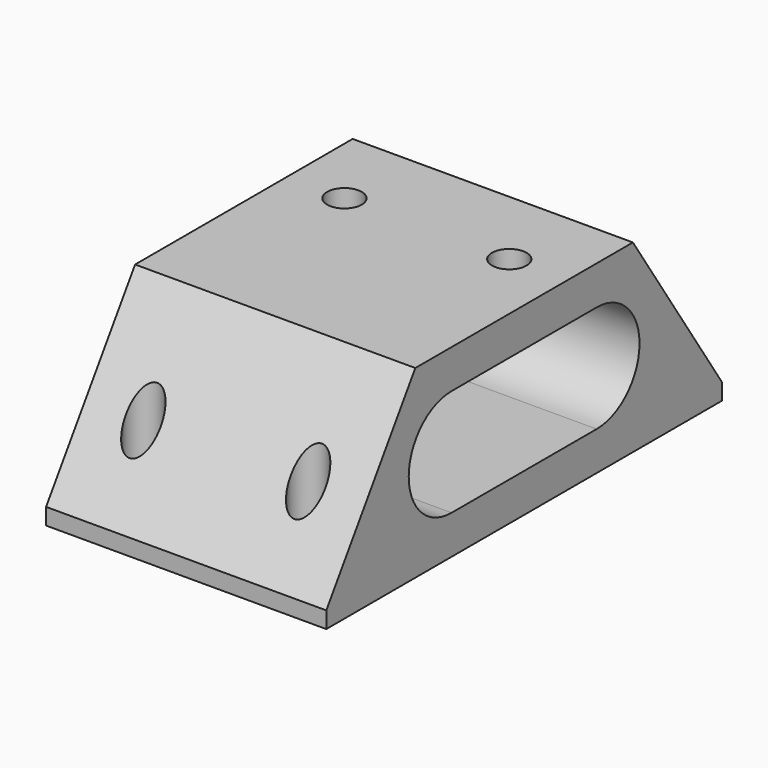
from build123d import *

# Parameters (mm, degrees)
PAD002_DEPTH  = 17
SKETCH027_R   = 2.1
HOLE002_DEPTH = 22.401
SKETCH028_R   = 2.1
HOLE001_DEPTH = 5


with BuildPart() as part:
    # Sketch026 → Pad002 (new body, symmetric)
    with BuildSketch(Plane.YZ):
        Polygon((-30, 0), (-30, 2), (-16.5, 22.4), (16.5, 22.4), (30, 2), (30, 0), align=None)
        with BuildLine():
            ThreePointArc((-11, 17.7), (-17.5, 11.2), (-11, 4.7))
            Line((-11, 4.7), (11, 4.7))
            ThreePointArc((11, 4.7), (17.5, 11.2), (11, 17.7))
            Line((-11, 17.7), (11, 17.7))
        make_face(mode=Mode.SUBTRACT)
    extrude(amount=PAD002_DEPTH, both=True)

    # Sketch027 → Hole002 (cut, through all)
    with BuildSketch(Plane(origin=(0, 0, 0), x_dir=(-1, 0, 0), z_dir=(0, 0, -1))):
        with Locations((-10, 24)):
            Circle(SKETCH027_R)
        with Locations((-10, -24)):
            Circle(SKETCH027_R)
        with Locations((10, -24)):
            Circle(SKETCH027_R)
        with Locations((10, 24)):
            Circle(SKETCH027_R)
    extrude(amount=-HOLE002_DEPTH, mode=Mode.SUBTRACT)

    # Sketch028 → Hole001 (cut)
    with BuildSketch(Plane.XY.offset(22.4)):
        with Locations((-10, 6.5)):
            Circle(SKETCH028_R)
        with Locations((10, 6.5)):
            Circle(SKETCH028_R)
    extrude(amount=-HOLE001_DEPTH, mode=Mode.SUBTRACT)


solid = part.part
